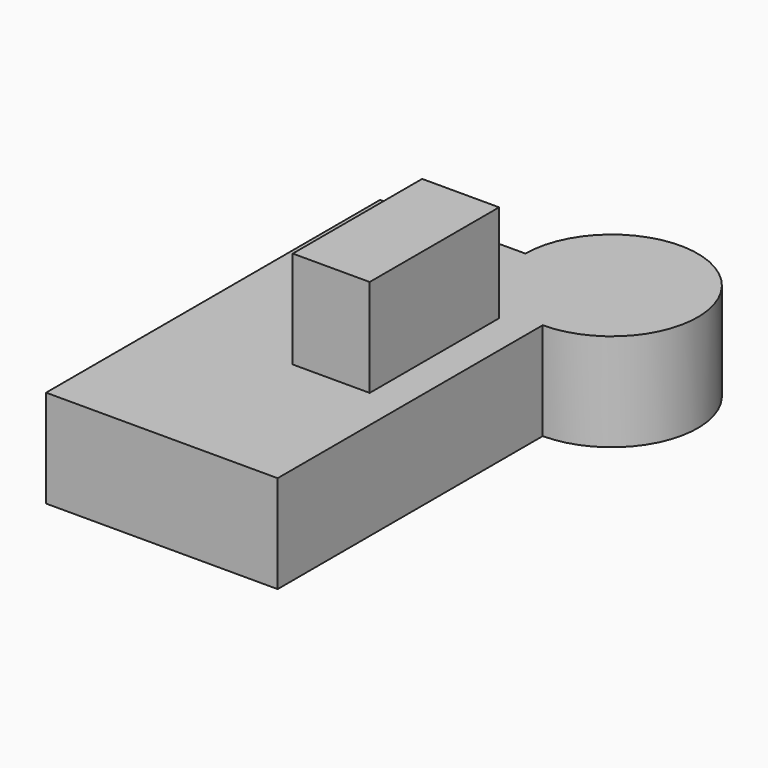
from build123d import *

# Parameters (mm, degrees)
F1_DEPTH = 25.4
F2_W     = 20.0148001313
F2_H     = 42.0691836625
F3_DEPTH = 25.4


with BuildPart() as f1:
    # F0 (on Top) → F1 (new body)
    with BuildSketch(Plane.XY):
        with BuildLine():
            Line((2.726720646, 50.0040240586), (2.726720646, -58.5763193667))
            Line((2.726720646, -58.5763193667), (62.9542395473, -58.5763193667))
            Line((62.9542395473, -58.5763193667), (62.9542395473, 27.6013473304))
            ThreePointArc((62.9542395473, 27.6013473304), (47.113154916, 34.1629394274), (40.5515628191, 50.0040240586))
            Line((40.5515628191, 50.0040240586), (2.726720646, 50.0040240586))
        make_face()
        with BuildLine():
            ThreePointArc((40.5515628191, 50.0040240586), (47.113154916, 34.1629394274), (62.9542395473, 27.6013473304))
            Line((62.9542395473, 27.6013473304), (62.9542395473, 50.0040240586))
            Line((62.9542395473, 50.0040240586), (40.5515628191, 50.0040240586))
        make_face()
        with BuildLine():
            Line((62.9542395473, 50.0040240586), (62.9542395473, 27.6013473304))
            ThreePointArc((62.9542395473, 27.6013473304), (78.7953241785, 34.1629394274), (85.3569162754, 50.0040240586))
            ThreePointArc((85.3569162754, 50.0040240586), (62.9542395473, 72.4067007867), (40.5515628191, 50.0040240586))
            Line((40.5515628191, 50.0040240586), (62.9542395473, 50.0040240586))
        make_face()
    extrude(amount=F1_DEPTH)

    # F2 (on face) → F3 (join)
    with BuildSketch(Plane.XY.offset(25.4)):
        with Locations((44.1186800599, 3.4223971888)):
            Rectangle(F2_W, F2_H)
    extrude(amount=F3_DEPTH)


solid = f1.part
